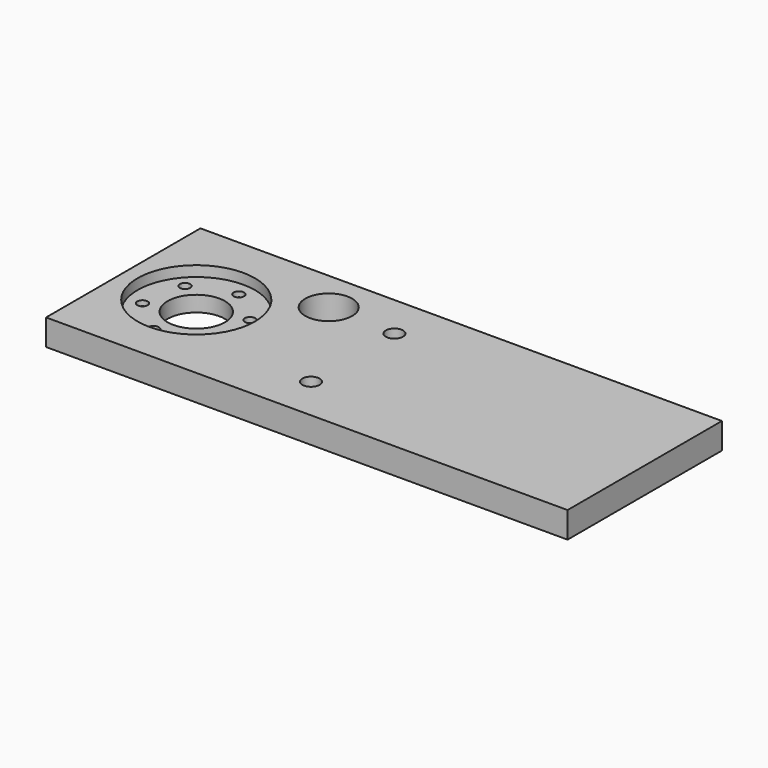
from build123d import *

# Parameters (mm, degrees)
F0_W           = 100
F0_H           = 37
F1_DEPTH       = 5
F2_R           = 5.5
F3_DEPTH       = 5
F4_R           = 11.25
F5_DEPTH       = 2
F7_D           = 2
F7_DEPTH       = 6
F7_CBORE_D     = 4
F7_CBORE_DEPTH = 2
F7_TIP         = 0.600860619
F9_D           = 9
F9_DEPTH       = 7
F9_TIP         = 2.7038727856
F11_D          = 3.3
F11_DEPTH      = 6
F11_TIP        = 0.9914200214


with BuildPart() as f1:
    # F0 (on Top) → F1 (new body)
    with BuildSketch(Plane.XY):
        Rectangle(F0_W, F0_H)
    extrude(amount=F1_DEPTH)

    # F2 (on face) → F3 (cut)
    with BuildSketch(Plane.XY.offset(5)):
        with Locations((-36, 0)):
            Circle(F2_R)
    extrude(amount=-F3_DEPTH, mode=Mode.SUBTRACT)

    # F4 (on face) → F5 (cut)
    with BuildSketch(Plane.XY.offset(5)):
        with Locations((-36, 0)):
            Circle(F4_R)
    extrude(amount=-F5_DEPTH, mode=Mode.SUBTRACT)

    # F7
    with Locations(Plane(origin=(0, 0, 0), x_dir=(1, 0, 0), z_dir=(0, 0, -1))):
        with Locations((-37.4760095102, 8.3708659006), (-43.9873872767, 2.9071712183), (-42.5113777665, -5.4636946823), (-34.5239904898, -8.3708659006), (-28.0126127233, -2.9071712183), (-29.4886222335, 5.4636946823)):
            CounterBoreHole(F7_D / 2, F7_CBORE_D / 2, F7_CBORE_DEPTH, depth=F7_DEPTH)
            with Locations((0, 0, -(F7_DEPTH + F7_TIP / 2))):  # 118° drill point
                Cone(0, F7_D / 2, F7_TIP, mode=Mode.SUBTRACT)

    # F9
    with Locations(Plane.XY.offset(5)):
        with Locations((-19, 10.5)):
            Hole(F9_D / 2, depth=F9_DEPTH)
            with Locations((0, 0, -(F9_DEPTH + F9_TIP / 2))):  # 118° drill point
                Cone(0, F9_D / 2, F9_TIP, mode=Mode.SUBTRACT)

    # F11
    with Locations(Plane(origin=(0, 0, 0), x_dir=(1, 0, 0), z_dir=(0, 0, -1))):
        with Locations((-6, 10), (-6, -10)):
            Hole(F11_D / 2, depth=F11_DEPTH)
            with Locations((0, 0, -(F11_DEPTH + F11_TIP / 2))):  # 118° drill point
                Cone(0, F11_D / 2, F11_TIP, mode=Mode.SUBTRACT)


solid = f1.part
